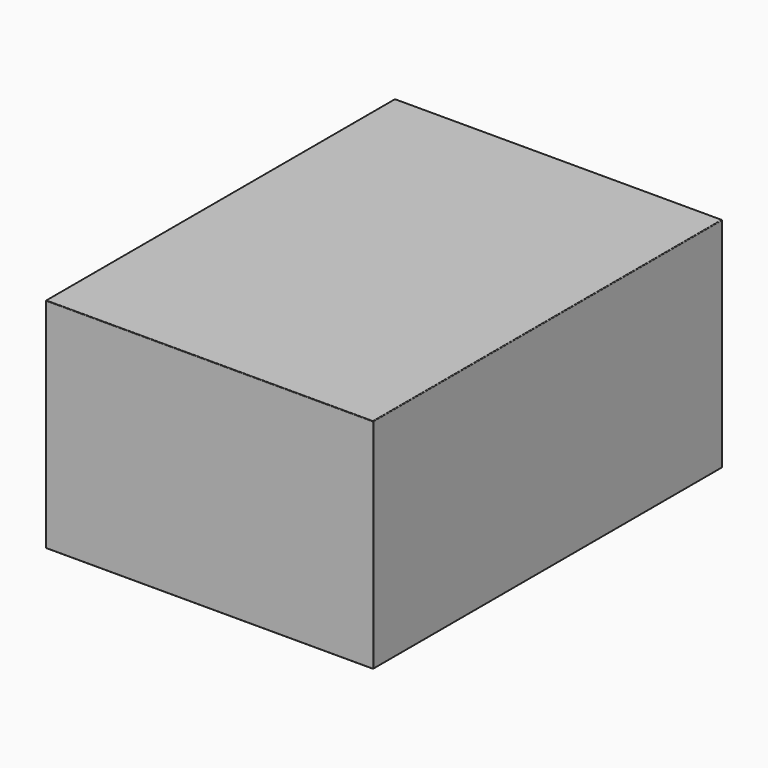
from build123d import *

# Parameters (mm, degrees)
SKETCH_W  = 600
SKETCH_H  = 800
PAD_DEPTH = 400
FILLET_R  = 1


with BuildPart() as part:
    # Sketch → Pad (new body)
    with BuildSketch(Plane.XY):
        with Locations((300, -400)):
            Rectangle(SKETCH_W, SKETCH_H)
    extrude(amount=PAD_DEPTH)

    # Fillet
    fillet_edges = [part.edges().sort_by_distance(p)[0] for p in [
        (0, 0, 200),
        (600, 0, 200),
        (300, 0, 0),
        (300, 0, 400),
        (600, -800, 200),
        (600, -400, 0),
        (600, -400, 400),
        (0, -800, 200),
        (300, -800, 0),
        (300, -800, 400),
        (0, -400, 0),
        (0, -400, 400),
    ]]
    fillet(fillet_edges, radius=FILLET_R)


solid = part.part
